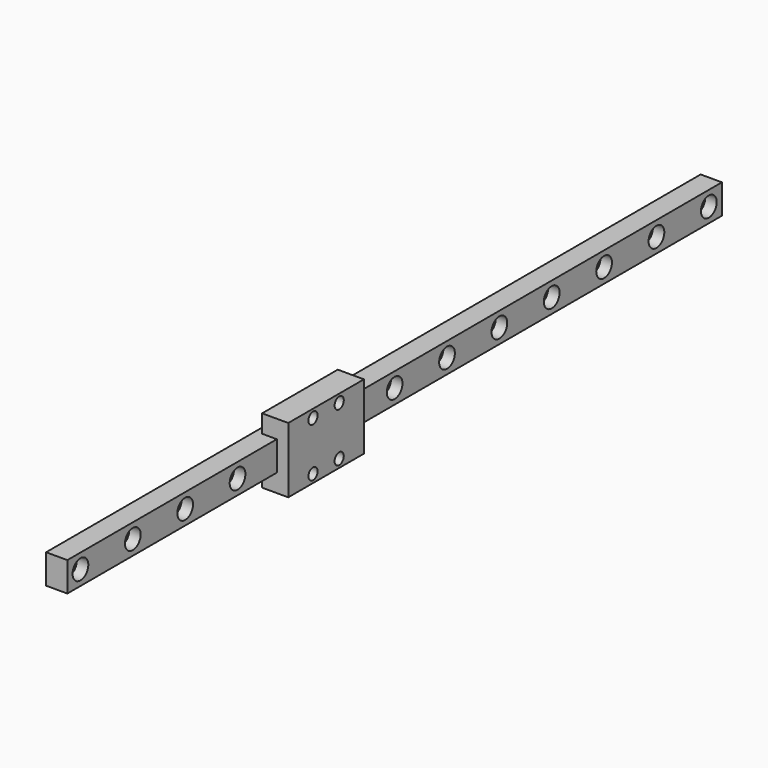
from build123d import *

# Parameters (mm, degrees)
SKETCH030_W             = 9
SKETCH030_H             = 250
PAD016_DEPTH            = 6.5
SKETCH031_R             = 1.75
POCKET012_DEPTH         = 6.5
LINEARPATTERN007_COUNT  = 13
LINEARPATTERN007_PITCH  = 20
SKETCH032_R             = 3
POCKET013_DEPTH         = 3.5
LINEARPATTERN006_COUNT  = 13
LINEARPATTERN006_PITCH  = 20
SKETCH029_W             = 20
SKETCH029_H             = 28.9
SKETCH029_R             = 1.75
PAD017_DEPTH            = 8
BODY007_PLACEMENT_ANGLE = 90


with BuildPart() as part:
    # Sketch030 → Pad016 (new body)
    with BuildSketch(Plane.XY):
        with Locations((0, 125)):
            Rectangle(SKETCH030_W, SKETCH030_H)
    extrude(amount=-PAD016_DEPTH)

    # Sketch031 → Pocket012 (cut)
    with BuildSketch(Plane.XY):
        with Locations((0, 5)):
            Circle(SKETCH031_R)
    pocket012 = extrude(amount=-POCKET012_DEPTH, mode=Mode.SUBTRACT)

    # LinearPattern007: Pocket012 ×13
    with Locations(*[(0, i * LINEARPATTERN007_PITCH, 0) for i in range(1, LINEARPATTERN007_COUNT)]):
        add(pocket012, mode=Mode.SUBTRACT)

    # Sketch032 → Pocket013 (cut)
    with BuildSketch(Plane.XY):
        with Locations((0, 5)):
            Circle(SKETCH032_R)
    pocket013 = extrude(amount=-POCKET013_DEPTH, mode=Mode.SUBTRACT)

    # LinearPattern006: Pocket013 ×13
    with Locations(*[(0, i * LINEARPATTERN006_PITCH, 0) for i in range(1, LINEARPATTERN006_COUNT)]):
        add(pocket013, mode=Mode.SUBTRACT)

    # Sketch029 → Pad017 (join)
    with BuildSketch(Plane.XY.offset(-4.5)):
        with Locations((0, 94.45)):
            Rectangle(SKETCH029_W, SKETCH029_H)
        with Locations((-7.5, 99.45)):
            Circle(SKETCH029_R, mode=Mode.SUBTRACT)
        with Locations((7.5, 99.45)):
            Circle(SKETCH029_R, mode=Mode.SUBTRACT)
        with Locations((7.5, 89.45)):
            Circle(SKETCH029_R, mode=Mode.SUBTRACT)
        with Locations((-7.5, 89.45)):
            Circle(SKETCH029_R, mode=Mode.SUBTRACT)
    extrude(amount=PAD017_DEPTH)


with BuildPart() as part_1:
    # Body007 placement: moved
    add(part.part.moved(Location((-128.5, 0, -15))).rotate(Axis((-128.5, 0, -15), (0, 1, 0)), BODY007_PLACEMENT_ANGLE))


solid = part_1.part
